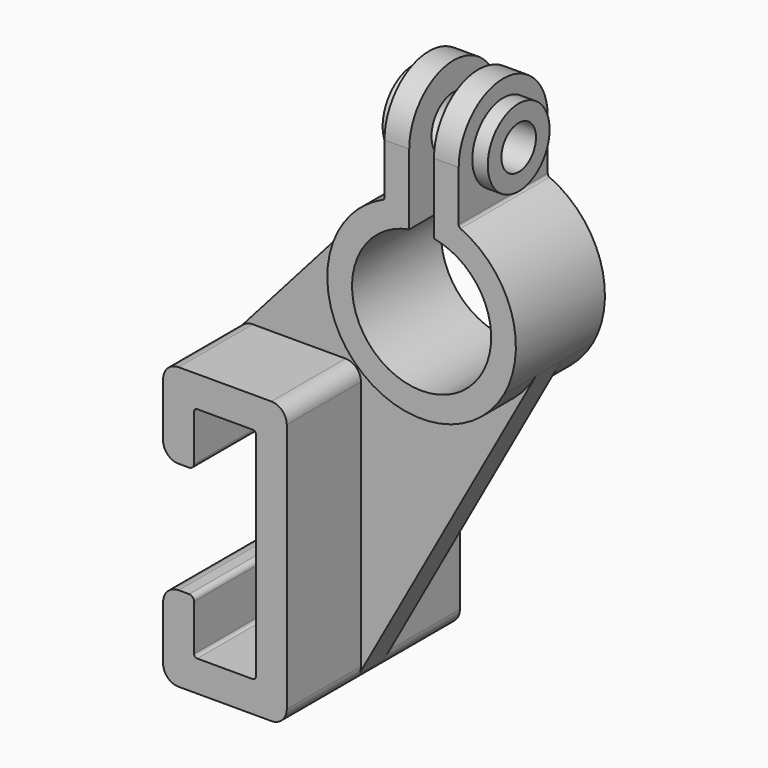
from build123d import *

# Parameters (mm, degrees)
F1_DEPTH  = 18
F2_DEPTH  = 5
F3_DEPTH  = 35
F6_DEPTH  = 8
F8_DEPTH  = 8
F10_DEPTH = 5
F12_DEPTH = 5
F14_D     = 18
F14_DEPTH = 18
F14_TIP   = 5.4077455712
F16_D     = 14
F16_DEPTH = 18
F16_TIP   = 4.2060243332
F17_R     = 1
F18_R     = 1.6
F19_R     = 1


with BuildPart() as f1:
    # F0 (on Front) → F1 (new body, symmetric)
    with BuildSketch(Plane.XZ):
        with BuildLine():
            ThreePointArc((4, 22.1415898255), (0, -22.5), (-4, 22.1415898255))
            Line((-4, 22.1415898255), (-4, 45))
            Line((-4, 45), (-12, 45))
            Line((-12, 45), (-12, 28.0401497856))
            ThreePointArc((-12, 28.0401497856), (-17.8577847603, 24.7254832805), (-22.845943753, 20.2067526841))
            ThreePointArc((-22.845943753, 20.2067526841), (-17.587930353, -24.9181601628), (26.691644965, -14.7582549463))
            ThreePointArc((26.691644965, -14.7582549463), (28.8476465145, 9.9026910774), (12, 28.0401497856))
            Line((12, 28.0401497856), (12, 45))
            Line((12, 45), (4, 45))
            Line((4, 45), (4, 22.1415898255))
        make_face()
    extrude(amount=F1_DEPTH, both=True)

    # F0 (on Front) → F2 (join, symmetric)
    with BuildSketch(Plane.XZ):
        with BuildLine():
            ThreePointArc((26.691644965, -14.7582549463), (-17.587930353, -24.9181601628), (-22.845943753, 20.2067526841))
            Line((-22.845943753, 20.2067526841), (-68.7452366808, -31.6874175928))
            ThreePointArc((-68.7452366808, -31.6874175928), (-67.0539094386, -30.4413317714), (-65, -30))
            Line((-65, -30), (-35, -30))
            ThreePointArc((-35, -30), (-31.4644660941, -31.4644660941), (-30, -35))
            Line((-30, -35), (-30, -116))
            ThreePointArc((-30, -116), (-30.1585953736, -117.2493203127), (-30.6243204975, -118.4193860568))
            Line((-30.6243204975, -118.4193860568), (26.691644965, -14.7582549463))
        make_face()
    extrude(amount=F2_DEPTH, both=True)

    # F0 (on Front) → F3 (join, symmetric)
    with BuildSketch(Plane.XZ):
        with BuildLine():
            ThreePointArc((-65, -30), (-67.0539094386, -30.4413317714), (-68.7452366808, -31.6874175928))
            ThreePointArc((-68.7452366808, -31.6874175928), (-69.6757985096, -33.2288680744), (-70, -35))
            Line((-70, -35), (-70, -52.5))
            ThreePointArc((-70, -52.5), (-68.5355339059, -56.0355339059), (-65, -57.5))
            Line((-65, -57.5), (-60, -57.5))
            Line((-60, -57.5), (-60, -40))
            Line((-60, -40), (-40, -40))
            Line((-40, -40), (-40, -111))
            Line((-40, -111), (-60, -111))
            Line((-60, -111), (-60, -93.5))
            Line((-60, -93.5), (-65, -93.5))
            ThreePointArc((-65, -93.5), (-68.5355339059, -94.9644660941), (-70, -98.5))
            Line((-70, -98.5), (-70, -116))
            ThreePointArc((-70, -116), (-68.5355339059, -119.5355339059), (-65, -121))
            Line((-65, -121), (-35, -121))
            ThreePointArc((-35, -121), (-32.4600128232, -120.3067929068), (-30.6243204975, -118.4193860568))
            ThreePointArc((-30.6243204975, -118.4193860568), (-30.1585953736, -117.2493203127), (-30, -116))
            Line((-30, -116), (-30, -35))
            ThreePointArc((-30, -35), (-31.4644660941, -31.4644660941), (-35, -30))
            Line((-35, -30), (-65, -30))
        make_face()
    extrude(amount=F3_DEPTH, both=True)

    # F5 (on face) → F6 (join, through all)
    with BuildSketch(Plane.YZ.offset(12)):
        with BuildLine():
            Line((-18, 45), (18, 45))
            ThreePointArc((18, 45), (0, 63), (-18, 45))
        make_face()
    extrude(amount=-F6_DEPTH)

    # F7 (on face) → F8 (join, through all)
    with BuildSketch(Plane(origin=(-12, 0, 0), x_dir=(0, -1, 0), z_dir=(-1, 0, 0))):
        with BuildLine():
            Line((-18, 45), (18, 45))
            ThreePointArc((18, 45), (0, 63), (-18, 45))
        make_face()
    extrude(amount=-F8_DEPTH)

    # F9 (on face) → F10 (join)
    with BuildSketch(Plane(origin=(-12, 0, 0), x_dir=(0, -1, 0), z_dir=(-1, 0, 0))):
        with BuildLine():
            Line((-12.5, 45), (12.5, 45))
            ThreePointArc((12.5, 45), (0, 57.5), (-12.5, 45))
        make_face()
        with BuildLine():
            ThreePointArc((-12.5, 45), (0, 32.5), (12.5, 45))
            Line((12.5, 45), (-12.5, 45))
        make_face()
    extrude(amount=F10_DEPTH)

    # F11 (on face) → F12 (join)
    with BuildSketch(Plane.YZ.offset(12)):
        with BuildLine():
            Line((-12.5, 45), (12.5, 45))
            ThreePointArc((12.5, 45), (0, 57.5), (-12.5, 45))
        make_face()
        with BuildLine():
            ThreePointArc((-12.5, 45), (0, 32.5), (12.5, 45))
            Line((12.5, 45), (-12.5, 45))
        make_face()
    extrude(amount=F12_DEPTH)

    # F14
    with Locations(Plane(origin=(-17, 0, 0), x_dir=(0, -1, 0), z_dir=(-1, 0, 0))):
        with Locations((0, 45)):
            Hole(F14_D / 2, depth=F14_DEPTH)
            with Locations((0, 0, -(F14_DEPTH + F14_TIP / 2))):  # 118° drill point
                Cone(0, F14_D / 2, F14_TIP, mode=Mode.SUBTRACT)

    # F16
    with Locations(Plane.YZ.offset(17)):
        with Locations((0, 45)):
            Hole(F16_D / 2, depth=F16_DEPTH)
            with Locations((0, 0, -(F16_DEPTH + F16_TIP / 2))):  # 118° drill point
                Cone(0, F16_D / 2, F16_TIP, mode=Mode.SUBTRACT)

    # F17
    f17_edges = [f1.edges().sort_by_distance(p)[0] for p in [
        (-60, 0, -40),
        (-40, 0, -40),
        (-40, 0, -111),
        (-60, 0, -111),
    ]]
    fillet(f17_edges, radius=F17_R)

    # F18
    f18_edges = [f1.edges().sort_by_distance(p)[0] for p in [
        (-60, 0, -57.5),
        (-60, 0, -93.5),
    ]]
    fillet(f18_edges, radius=F18_R)

    # F19
    f19_edges = [f1.edges().sort_by_distance(p)[0] for p in [
        (12, 9, 28.04015),
        (12, -9, 28.04015),
        (-12, 9, 28.04015),
        (-12, -9, 28.04015),
    ]]
    fillet(f19_edges, radius=F19_R)


solid = f1.part
